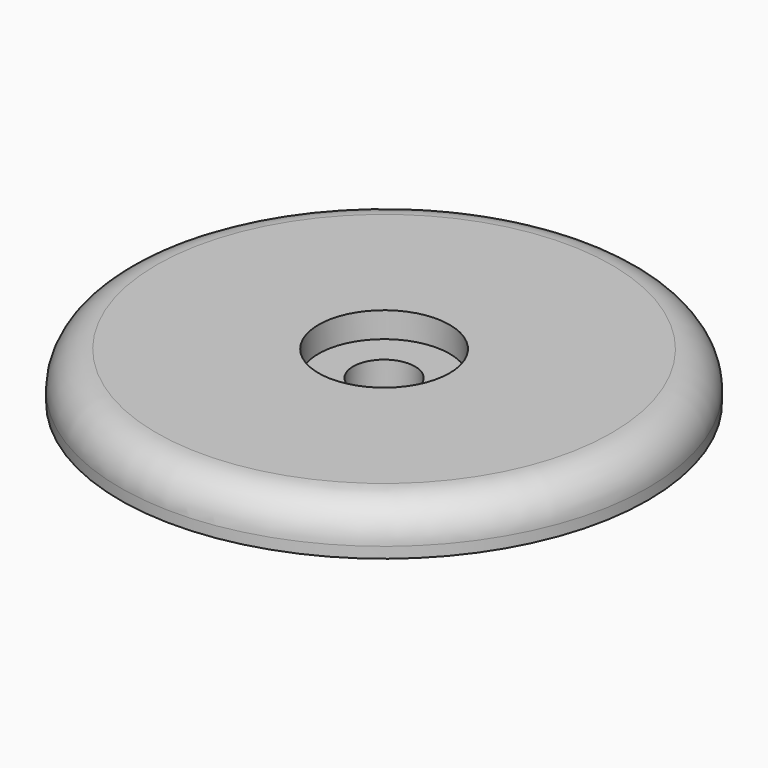
from build123d import *

# Parameters (mm, degrees)
SKETCH005_R     = 14.5
SKETCH005_R_2   = 1.7
PAD004_DEPTH    = 2.6
SKETCH006_R     = 3.6
POCKET001_DEPTH = 1.4
FILLET_R        = 2
SKETCH010_R     = 5.25
SKETCH010_R_2   = 1.7
PAD007_DEPTH    = 0.6


with BuildPart() as part:
    # Sketch005 → Pad004 (new body)
    with BuildSketch(Plane.XY):
        Circle(SKETCH005_R)
        Circle(SKETCH005_R_2, mode=Mode.SUBTRACT)
    extrude(amount=PAD004_DEPTH)

    # Sketch006 (on Face4 of Pad004) → Pocket001 (cut)
    with BuildSketch(Plane.XY.offset(2.6)):
        Circle(SKETCH006_R)
    extrude(amount=-POCKET001_DEPTH, mode=Mode.SUBTRACT)

    # Fillet
    fillet_edges = [part.edges().sort_by_distance(p)[0] for p in [
        (-14.5, 0, 2.6),
    ]]
    fillet(fillet_edges, radius=FILLET_R)

    # Sketch010 (on Face3 of Fillet) → Pad007 (join)
    with BuildSketch(Plane(origin=(0, 0, 0), x_dir=(1, 0, 0), z_dir=(0, 0, -1))):
        Circle(SKETCH010_R)
        Circle(SKETCH010_R_2, mode=Mode.SUBTRACT)
    extrude(amount=PAD007_DEPTH)


solid = part.part
